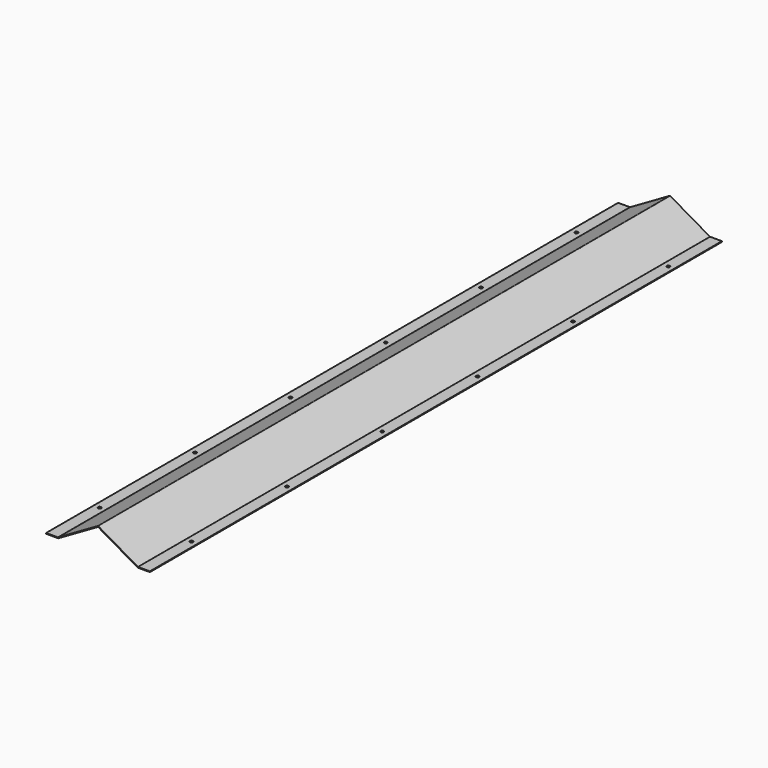
from build123d import *

# Parameters (mm, degrees)
F1_DEPTH = 1524
F2_R     = 3.3655
F3_DEPTH = 1.6012


with BuildPart() as f1:
    # F0 (on Front) → F1 (new body)
    with BuildSketch(Plane.XZ):
        with BuildLine():
            ThreePointArc((0.9271, 50.264739), (0, 50.513154), (-0.9271, 50.264739))
            Line((-0.9271, 50.264739), (-85.157612, 1.63423))
            ThreePointArc((-85.157612, 1.63423), (-85.218872, 1.608855), (-85.284612, 1.6002))
            Line((-85.284612, 1.6002), (-110.616553, 1.6002))
            Line((-110.616553, 1.6002), (-110.616553, 0))
            Line((-110.616553, 0), (-85.284612, 0))
            ThreePointArc((-85.284612, 0), (-84.80471, 0.06318), (-84.357512, 0.248416))
            Line((-84.357512, 0.248416), (-0.127, 48.878925))
            ThreePointArc((-0.127, 48.878925), (0, 48.912954), (0.127, 48.878925))
            Line((0.127, 48.878925), (84.357512, 0.248416))
            ThreePointArc((84.357512, 0.248416), (84.80471, 0.06318), (85.284612, 0))
            Line((85.284612, 0), (110.616553, 0))
            Line((110.616553, 0), (110.616553, 1.6002))
            Line((110.616553, 1.6002), (85.284612, 1.6002))
            ThreePointArc((85.284612, 1.6002), (85.218872, 1.608855), (85.157612, 1.63423))
            Line((85.157612, 1.63423), (0.9271, 50.264739))
        make_face()
    extrude(amount=F1_DEPTH)

    # F2 (on face) → F3 (cut, through all)
    with BuildSketch(Plane.XY.offset(1.6002)):
        with Locations((-97.916553, -127)):
            Circle(F2_R)
        with Locations((97.916553, -127)):
            Circle(F2_R)
        with Locations((-97.916553, -381)):
            Circle(F2_R)
        with Locations((97.916553, -381)):
            Circle(F2_R)
        with Locations((-97.916553, -635)):
            Circle(F2_R)
        with Locations((97.916553, -635)):
            Circle(F2_R)
        with Locations((-97.916553, -889)):
            Circle(F2_R)
        with Locations((97.916553, -889)):
            Circle(F2_R)
        with Locations((-97.916553, -1143)):
            Circle(F2_R)
        with Locations((97.916553, -1143)):
            Circle(F2_R)
        with Locations((-97.916553, -1397)):
            Circle(F2_R)
        with Locations((97.916553, -1397)):
            Circle(F2_R)
    extrude(amount=-F3_DEPTH, mode=Mode.SUBTRACT)


solid = f1.part
